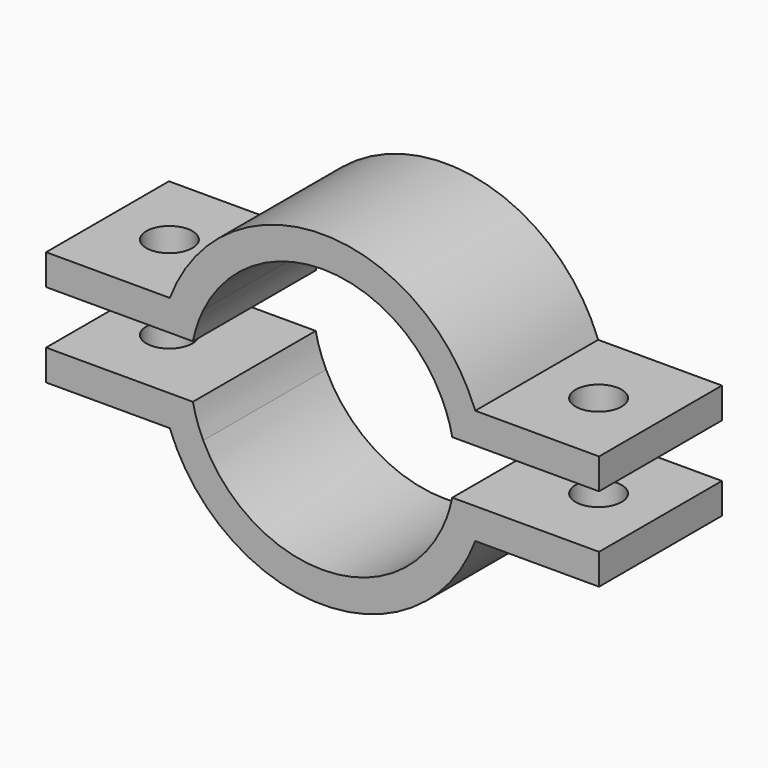
from build123d import *

# Parameters (mm, degrees)
F1_DEPTH = 10
F2_R     = 1.5
F3_DEPTH = 25


with BuildPart() as f1:
    # F0 (on Front) → F1 (new body)
    with BuildSketch(Plane.XZ):
        with BuildLine():
            ThreePointArc((-7.769461, 22.616386), (-8.168112, 23.595667), (-8.443872, 24.616386))
            Line((-8.443872, 24.616386), (-10.477547, 24.616386))
            ThreePointArc((-10.477547, 24.616386), (-10.258658, 23.603305), (-9.942058, 22.616386))
            Line((-9.942058, 22.616386), (-7.769461, 22.616386))
        make_face()
        with BuildLine():
            ThreePointArc((7.769461, 22.616386), (0, 17.73), (-7.769461, 22.616386))
            Line((-7.769461, 22.616386), (-9.942058, 22.616386))
            ThreePointArc((-9.942058, 22.616386), (0, 15.73), (9.942058, 22.616386))
            Line((9.942058, 22.616386), (7.769461, 22.616386))
        make_face()
        with BuildLine():
            ThreePointArc((-9.942058, 22.616386), (-10.258658, 23.603305), (-10.477547, 24.616386))
            Line((-10.477547, 24.616386), (-18, 24.616386))
            Line((-18, 24.616386), (-18, 22.616386))
            Line((-18, 22.616386), (-9.942058, 22.616386))
        make_face()
        with BuildLine():
            ThreePointArc((8.443872, 24.616386), (8.168112, 23.595667), (7.769461, 22.616386))
            Line((7.769461, 22.616386), (9.942058, 22.616386))
            ThreePointArc((9.942058, 22.616386), (10.258658, 23.603305), (10.477547, 24.616386))
            Line((10.477547, 24.616386), (8.443872, 24.616386))
        make_face()
        with BuildLine():
            ThreePointArc((10.477547, 24.616386), (10.258658, 23.603305), (9.942058, 22.616386))
            Line((9.942058, 22.616386), (18, 22.616386))
            Line((18, 22.616386), (18, 24.616386))
            Line((18, 24.616386), (10.477547, 24.616386))
        make_face()
        with BuildLine():
            ThreePointArc((7.769461, 30.083614), (8.168112, 29.104333), (8.443872, 28.083614))
            Line((8.443872, 28.083614), (10.477547, 28.083614))
            ThreePointArc((10.477547, 28.083614), (10.258658, 29.096695), (9.942058, 30.083614))
            Line((9.942058, 30.083614), (7.769461, 30.083614))
        make_face()
        with BuildLine():
            ThreePointArc((-7.769461, 30.083614), (0, 34.97), (7.769461, 30.083614))
            Line((7.769461, 30.083614), (9.942058, 30.083614))
            ThreePointArc((9.942058, 30.083614), (0, 36.97), (-9.942058, 30.083614))
            Line((-9.942058, 30.083614), (-7.769461, 30.083614))
        make_face()
        with BuildLine():
            ThreePointArc((9.942058, 30.083614), (10.258658, 29.096695), (10.477547, 28.083614))
            Line((10.477547, 28.083614), (18, 28.083614))
            Line((18, 28.083614), (18, 30.083614))
            Line((18, 30.083614), (9.942058, 30.083614))
        make_face()
        with BuildLine():
            ThreePointArc((-8.443872, 28.083614), (-8.168112, 29.104333), (-7.769461, 30.083614))
            Line((-7.769461, 30.083614), (-9.942058, 30.083614))
            ThreePointArc((-9.942058, 30.083614), (-10.258658, 29.096695), (-10.477547, 28.083614))
            Line((-10.477547, 28.083614), (-8.443872, 28.083614))
        make_face()
        with BuildLine():
            ThreePointArc((-10.477547, 28.083614), (-10.258658, 29.096695), (-9.942058, 30.083614))
            Line((-9.942058, 30.083614), (-18, 30.083614))
            Line((-18, 30.083614), (-18, 28.083614))
            Line((-18, 28.083614), (-10.477547, 28.083614))
        make_face()
    extrude(amount=F1_DEPTH)

    # F2 (on face) → F3 (cut)
    with BuildSketch(Plane(origin=(0, 0, 22.616386), x_dir=(1, 0, 0), z_dir=(0, 0, -1))):
        with Locations((-13.971029, 5)):
            Circle(F2_R)
        with Locations((13.971029, 5)):
            Circle(F2_R)
    extrude(amount=-F3_DEPTH, mode=Mode.SUBTRACT)


solid = f1.part
